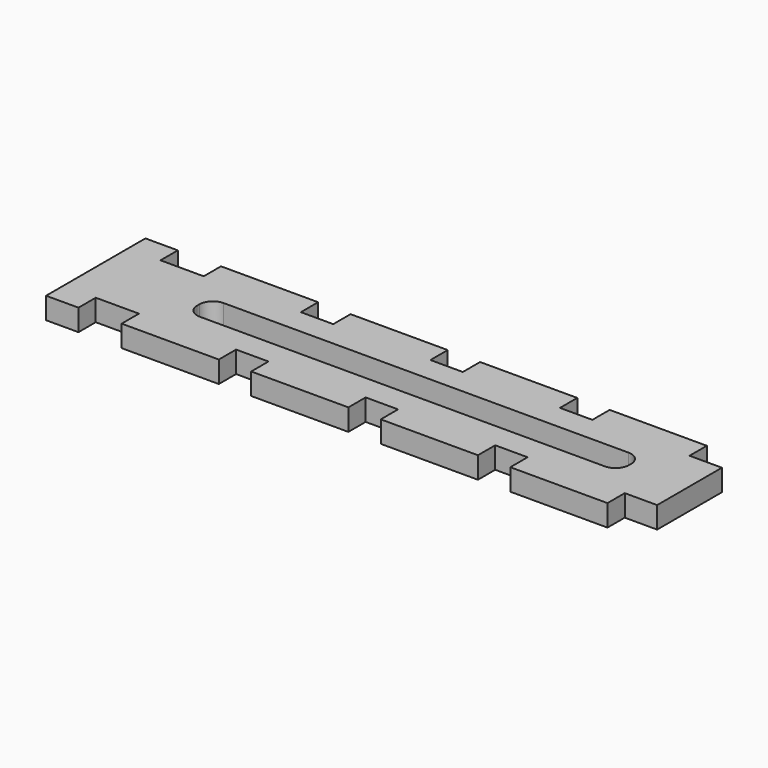
from build123d import *

# Parameters (mm, degrees)
F1_DEPTH = 4


with BuildPart() as f1:
    # F0 (on Top) → F1 (new body)
    with BuildSketch(Plane.XY):
        Polygon((-55, 11.5), (-55, -11.5), (-49, -11.5), (-49, -7.5), (-41, -7.5), (-41, -11.5), (-23, -11.5), (-23, -7.5), (-17, -7.5), (-17, -11.5), (1, -11.5), (1, -7.5), (7, -7.5), (7, -11.5), (25, -11.5), (25, -7.5), (31, -7.5), (31, -11.5), (49, -11.5), (49, -7.5), (55, -7.5), (55, 7.5), (49, 7.5), (49, 11.5), (31, 11.5), (31, 7.5), (25, 7.5), (25, 11.5), (7, 11.5), (7, 7.5), (1, 7.5), (1, 11.5), (-17, 11.5), (-17, 7.5), (-23, 7.5), (-23, 11.5), (-41, 11.5), (-41, 7.5), (-49, 7.5), (-49, 11.5), align=None)
        with BuildLine():
            ThreePointArc((-36, 0.25), (-35.267767, 2.017767), (-33.5, 2.75))
            Line((-33.5, 2.75), (41.5, 2.75))
            ThreePointArc((41.5, 2.75), (43.267767, 2.017767), (44, 0.25))
            Line((44, 0.25), (44, -0.25))
            ThreePointArc((44, -0.25), (43.267767, -2.017767), (41.5, -2.75))
            Line((41.5, -2.75), (-33.5, -2.75))
            ThreePointArc((-33.5, -2.75), (-35.267767, -2.017767), (-36, -0.25))
            Line((-36, -0.25), (-36, 0.25))
        make_face(mode=Mode.SUBTRACT)
    extrude(amount=F1_DEPTH)


solid = f1.part
